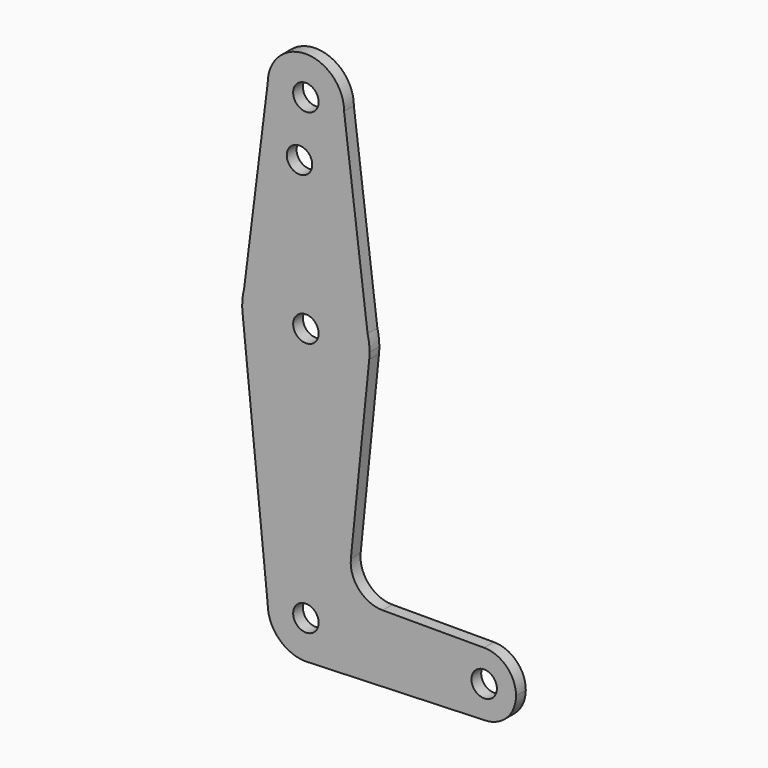
from build123d import *

# Parameters (mm, degrees)
F0_R     = 3.175
F1_DEPTH = 3.048


with BuildPart() as f1:
    # F0 (on Front) → F1 (new body)
    with BuildSketch(Plane.XZ):
        with BuildLine():
            ThreePointArc((0.67949, -9.500732), (6.97129, -6.490511), (9.525, 0))
            ThreePointArc((9.525, 0), (0, 9.525), (-9.525, 0))
            ThreePointArc((-9.525, 0), (-6.735192, -6.735192), (0, -9.525))
            Line((0, -9.525), (0.67949, -9.500732))
        make_face()
        Circle(F0_R, mode=Mode.SUBTRACT)
        with BuildLine():
            ThreePointArc((-9.525, 0), (0, 9.525), (9.525, 0))
            ThreePointArc((9.525, 0), (6.97129, -6.490511), (0.67949, -9.500732))
            Line((0.67949, -9.500732), (44.45, -7.9375))
            ThreePointArc((44.45, -7.9375), (36.5125, 0), (44.45, 7.9375))
            Line((44.45, 7.9375), (19.124959, 7.9375))
            ThreePointArc((19.124959, 7.9375), (13.226887, 10.556806), (11.215222, 16.688789))
            Line((11.215222, 16.688789), (15.794203, 61.90038))
            ThreePointArc((15.794203, 61.90038), (0, 47.625), (-15.794203, 61.90038))
            Line((-15.794203, 61.90038), (-9.525, 0))
        make_face()
        with BuildLine():
            ThreePointArc((0, -9.525), (0.339962, -9.518931), (0.67949, -9.500732))
            Line((0.67949, -9.500732), (0, -9.525))
        make_face()
        with BuildLine():
            ThreePointArc((-15.875, 63.5), (-15.854788, 62.699171), (-15.794203, 61.90038))
            ThreePointArc((-15.794203, 61.90038), (0, 47.625), (15.794203, 61.90038))
            ThreePointArc((15.794203, 61.90038), (15.854788, 62.699171), (15.875, 63.5))
            Line((15.875, 63.5), (15.386538, 67.407692))
            ThreePointArc((15.386538, 67.407692), (0, 79.375), (-15.386538, 67.407692))
            Line((-15.386538, 67.407692), (-15.875, 63.5))
        make_face()
        with Locations((0, 63.5)):
            Circle(F0_R, mode=Mode.SUBTRACT)
        with BuildLine():
            ThreePointArc((44.45, 7.9375), (36.5125, 0), (44.45, -7.9375))
            ThreePointArc((44.45, -7.9375), (50.06266, -5.61266), (52.3875, 0))
            ThreePointArc((52.3875, 0), (50.06266, 5.61266), (44.45, 7.9375))
        make_face()
        with Locations((44.45, 0)):
            Circle(F0_R, mode=Mode.SUBTRACT)
        with BuildLine():
            ThreePointArc((-15.386538, 67.407692), (-15.752411, 65.469051), (-15.875, 63.5))
            Line((-15.875, 63.5), (-15.386538, 67.407692))
        make_face()
        with BuildLine():
            Line((-9.525, 114.3), (-15.386538, 67.407692))
            ThreePointArc((-15.386538, 67.407692), (0, 79.375), (15.386538, 67.407692))
            Line((15.386538, 67.407692), (9.525, 114.3))
            ThreePointArc((9.525, 114.3), (0, 104.775), (-9.525, 114.3))
        make_face()
        with Locations((-1.5875, 100.0252)):
            Circle(F0_R, mode=Mode.SUBTRACT)
        with BuildLine():
            Line((15.386538, 67.407692), (15.875, 63.5))
            ThreePointArc((15.875, 63.5), (15.752411, 65.469051), (15.386538, 67.407692))
        make_face()
        with BuildLine():
            ThreePointArc((9.525, 114.3), (0, 123.825), (-9.525, 114.3))
            ThreePointArc((-9.525, 114.3), (0, 104.775), (9.525, 114.3))
        make_face()
        with Locations((0, 114.3)):
            Circle(F0_R, mode=Mode.SUBTRACT)
    extrude(amount=F1_DEPTH)


solid = f1.part
